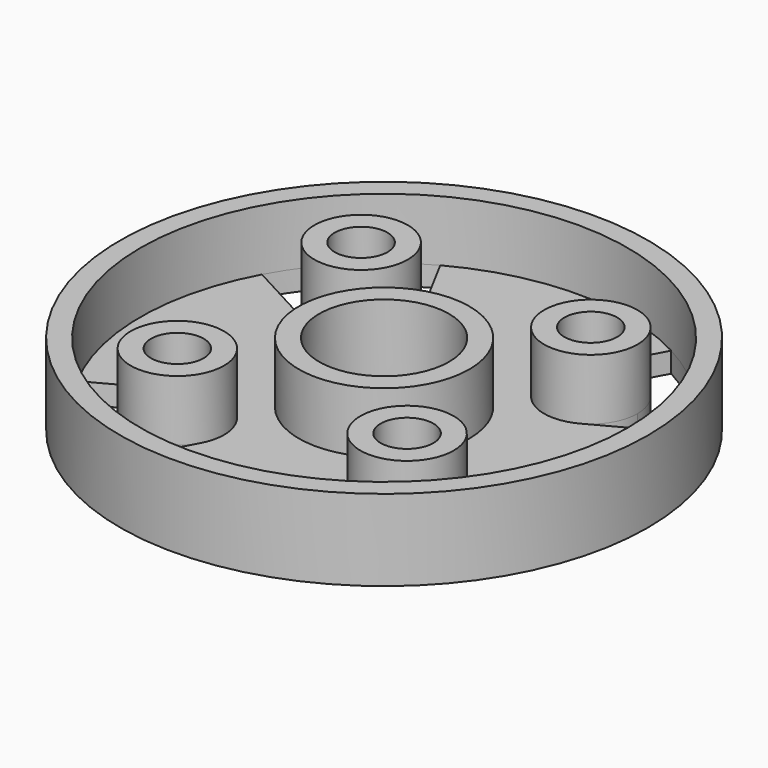
from build123d import *

# Parameters (mm, degrees)
F0_R     = 32.5
F1_DEPTH = 10
F2_R     = 8
F3_DEPTH = 25
F4_R     = 3.25
F5_DEPTH = 25
F6_T     = -2.5
F8_DEPTH = 25


with BuildPart() as f1:
    # F0 (on Top) → F1 (new body)
    with BuildSketch(Plane.XY):
        Circle(F0_R)
    extrude(amount=F1_DEPTH)

    # F2 (on Top) → F3 (cut)
    with BuildSketch(Plane.XY):
        Circle(F2_R)
    extrude(amount=F3_DEPTH, mode=Mode.SUBTRACT)

    # F4 (on face) → F5 (cut)
    with BuildSketch(Plane.XY.offset(10)):
        with Locations((-14.1421356237, 14.1421356237)):
            Circle(F4_R)
        with Locations((-14.1421356237, -14.1421356237)):
            Circle(F4_R)
        with Locations((14.1421356237, 14.1421356237)):
            Circle(F4_R)
        with Locations((14.1421356237, -14.1421356237)):
            Circle(F4_R)
    extrude(amount=-F5_DEPTH, mode=Mode.SUBTRACT)

    # F6
    f6_openings = [f1.faces().sort_by_distance(p)[0] for p in [
        (-31.580761, 0, 10),
    ]]
    offset(amount=F6_T, openings=f6_openings)

    # F7 (on face) → F8 (cut)
    with BuildSketch(Plane.XY.offset(2.5)):
        with BuildLine():
            ThreePointArc((19.8921356237, 14.1421356237), (19.0783691058, 11.1932207368), (16.8674055331, 9.0789939191))
            Line((16.8674055331, 9.0789939191), (26.4163915025, 14.218799527))
            ThreePointArc((26.4163915025, 14.218799527), (21.2132034356, 21.2132034356), (14.218799527, 26.4163915025))
            Line((14.218799527, 26.4163915025), (9.0789939191, 16.8674055331))
            ThreePointArc((9.0789939191, 16.8674055331), (15.5473820787, 19.7177775061), (19.8921356237, 14.1421356237))
        make_face()
        with BuildLine():
            Line((-9.0789939191, 16.8674055331), (-14.218799527, 26.4163915025))
            ThreePointArc((-14.218799527, 26.4163915025), (-21.2132034356, 21.2132034356), (-26.4163915025, 14.218799527))
            Line((-26.4163915025, 14.218799527), (-16.8674055331, 9.0789939191))
            ThreePointArc((-16.8674055331, 9.0789939191), (-18.2079996156, 18.2079996156), (-9.0789939191, 16.8674055331))
        make_face()
        with BuildLine():
            ThreePointArc((14.218799527, -26.4163915025), (21.2132034356, -21.2132034356), (26.4163915025, -14.218799527))
            Line((26.4163915025, -14.218799527), (16.8674055331, -9.0789939191))
            ThreePointArc((16.8674055331, -9.0789939191), (19.0783691058, -11.1932207368), (19.8921356237, -14.1421356237))
            ThreePointArc((19.8921356237, -14.1421356237), (15.5473820787, -19.7177775061), (9.0789939191, -16.8674055331))
            Line((9.0789939191, -16.8674055331), (14.218799527, -26.4163915025))
        make_face()
        with BuildLine():
            ThreePointArc((-26.4163915025, -14.218799527), (-21.2132034356, -21.2132034356), (-14.218799527, -26.4163915025))
            Line((-14.218799527, -26.4163915025), (-9.0789939191, -16.8674055331))
            ThreePointArc((-9.0789939191, -16.8674055331), (-18.2079996156, -18.2079996156), (-16.8674055331, -9.0789939191))
            Line((-16.8674055331, -9.0789939191), (-26.4163915025, -14.218799527))
        make_face()
    extrude(amount=-F8_DEPTH, mode=Mode.SUBTRACT)


solid = f1.part
